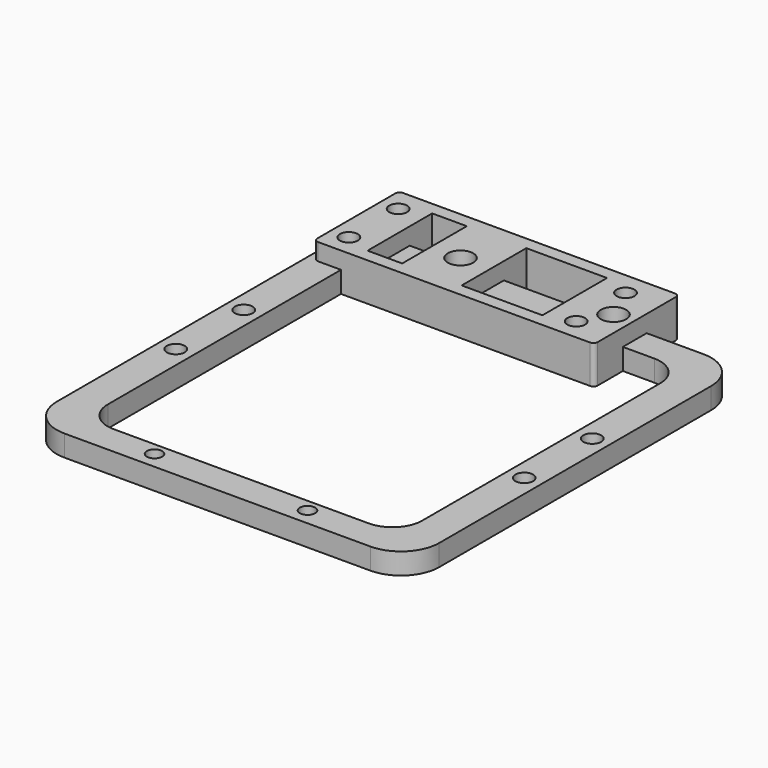
from build123d import *

# Parameters (mm, degrees)
SKETCH002_R      = 1.8
SKETCH002_R_2    = 2.1
SKETCH002_R_3    = 2.458824
EXTRUDE001_DEPTH = 5
SKETCH006_R      = 2.1
SKETCH006_R_2    = 3
SKETCH006_W      = 19
SKETCH006_H      = 19.003748
SKETCH006_W_2    = 8.15
SKETCH006_H_2    = 19
EXTRUDE005_DEPTH = 9


with BuildPart() as pair_connector_extrude:
    # Sketch002 → Extrude001 (new body)
    with BuildSketch(Plane.XY):
        with BuildLine():
            Line((-36, -49), (0, -49))
            Line((0, -49), (36, -49))
            ThreePointArc((36, -49), (42.363961, -46.363961), (45, -40))
            Line((45, -40), (45, 0))
            Line((45, 0), (45, 40))
            ThreePointArc((45, 40), (42.363961, 46.363961), (36, 49))
            Line((36, 49), (0, 49))
            Line((0, 49), (-36, 49))
            ThreePointArc((-36, 49), (-42.363961, 46.363961), (-45, 40))
            Line((-45, 40), (-45, 0))
            Line((-45, 0), (-45, -40))
            ThreePointArc((-45, -40), (-42.363961, -46.363961), (-36, -49))
        make_face()
        with Locations((-18, 45)):
            Circle(SKETCH002_R, mode=Mode.SUBTRACT)
        with Locations((18, 45)):
            Circle(SKETCH002_R, mode=Mode.SUBTRACT)
        with Locations((-18, -45)):
            Circle(SKETCH002_R, mode=Mode.SUBTRACT)
        with Locations((18, -45)):
            Circle(SKETCH002_R, mode=Mode.SUBTRACT)
        with Locations((-41, 10)):
            Circle(SKETCH002_R_2, mode=Mode.SUBTRACT)
        with Locations((-41, -10)):
            Circle(SKETCH002_R_2, mode=Mode.SUBTRACT)
        with Locations((-39.177948, 38.628017)):
            Circle(SKETCH002_R_3, mode=Mode.SUBTRACT)
        with Locations((41, -10)):
            Circle(SKETCH002_R_2, mode=Mode.SUBTRACT)
        with Locations((41, 10)):
            Circle(SKETCH002_R_2, mode=Mode.SUBTRACT)
        with BuildLine():
            Line((-30, -42), (0, -42))
            Line((0, -42), (30, -42))
            ThreePointArc((30, -42), (34.949747, -39.949747), (37, -35))
            Line((37, -35), (37, 0))
            Line((37, 0), (37, 35))
            ThreePointArc((37, 35), (34.949747, 39.949747), (30, 42))
            Line((30, 42), (0, 42))
            Line((0, 42), (-30, 42))
            ThreePointArc((-30, 42), (-34.949747, 39.949747), (-37, 35))
            Line((-37, 35), (-37, 0))
            Line((-37, 0), (-37, -35))
            ThreePointArc((-37, -35), (-34.949747, -39.949747), (-30, -42))
        make_face(mode=Mode.SUBTRACT)
    extrude(amount=EXTRUDE001_DEPTH)


with BuildPart() as pair_connector_extrude_1:
    # Extrude001 placement: moved
    add(pair_connector_extrude.part.moved(Location((0, 0, 6.2))))


with BuildPart() as pair_connector_fusion:
    # Sketch006 → Extrude005 (new body)
    with BuildSketch(Plane.XY):
        with BuildLine():
            Line((-42.4, 58.6), (21.6, 58.6))
            ThreePointArc((22.6, 57.6), (22.307107, 58.307107), (21.6, 58.6))
            Line((22.6, 57.6), (22.6, 34.6))
            ThreePointArc((21.596193, 33.596252), (22.305988, 33.890222), (22.6, 34.6))
            Line((-42.4, 33.6), (21.596193, 33.596252))
            ThreePointArc((-43.4, 34.6), (-43.10709, 33.89291), (-42.4, 33.6))
            Line((-43.4, 34.6), (-43.401347, 57.598594))
            ThreePointArc((-42.4, 58.6), (-43.10808, 58.306691), (-43.401347, 57.598594))
        make_face()
        with Locations((-39.15, 53.1)):
            Circle(SKETCH006_R, mode=Mode.SUBTRACT)
        with Locations((14.35, 53.1)):
            Circle(SKETCH006_R, mode=Mode.SUBTRACT)
        with Locations((-39.15, 38.6)):
            Circle(SKETCH006_R, mode=Mode.SUBTRACT)
        with Locations((14.35, 38.6)):
            Circle(SKETCH006_R, mode=Mode.SUBTRACT)
        with Locations((18, 45)):
            Circle(SKETCH006_R_2, mode=Mode.SUBTRACT)
        with Locations((-18, 45)):
            Circle(SKETCH006_R_2, mode=Mode.SUBTRACT)
        with Locations((-1.5, 46.098126)):
            Rectangle(SKETCH006_W, SKETCH006_H, mode=Mode.SUBTRACT)
        with Locations((-29.075, 46.1)):
            Rectangle(SKETCH006_W_2, SKETCH006_H_2, mode=Mode.SUBTRACT)
    extrude(amount=EXTRUDE005_DEPTH)


with BuildPart() as pair_connector_fusion_1:
    # Extrude005 placement: moved
    add(pair_connector_fusion.part.moved(Location((0, 0, 6.2))))

    # Fusion008: union pair connector extrude
    add(pair_connector_extrude_1.part)


solid = pair_connector_fusion_1.part
